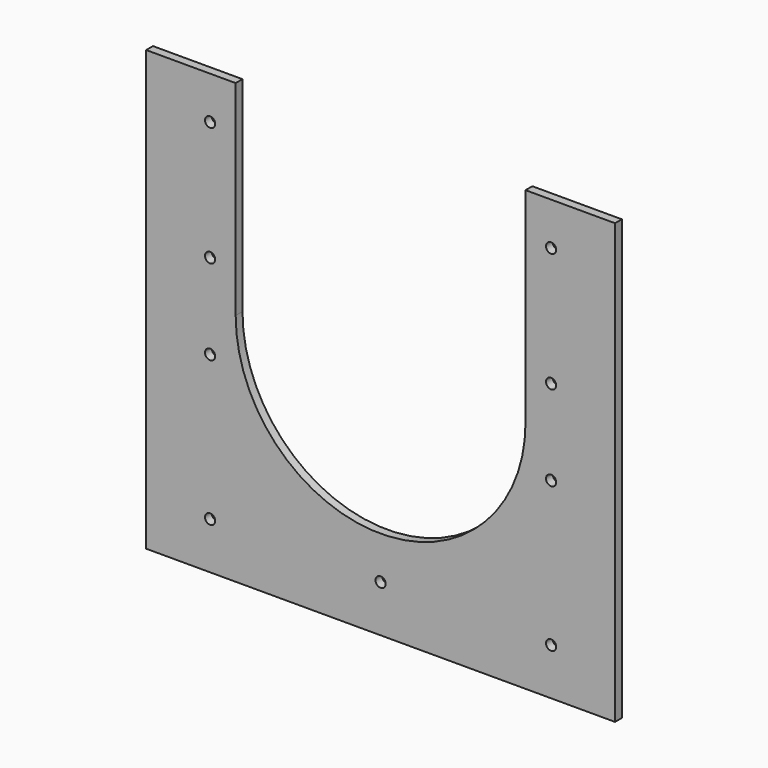
from build123d import *

# Parameters (mm, degrees)
SKETCH005_R      = 6
EXTRUDE004_DEPTH = 1000
EXTRUDE003_DEPTH = 1000
SKETCH003_W      = 550
SKETCH003_H      = 10
EXTRUDE002_DEPTH = 515


with BuildPart() as extrude004:
    # Sketch005 → Extrude004 (new body)
    with BuildSketch(Plane.XZ.offset(2500)):
        with Locations((-200, 1730)):
            Circle(SKETCH005_R)
        with Locations((-200, 1870)):
            Circle(SKETCH005_R)
        with Locations((200, 1870)):
            Circle(SKETCH005_R)
        with Locations((200, 1730)):
            Circle(SKETCH005_R)
        with Locations((-200, 1630)):
            Circle(SKETCH005_R)
        with Locations((-200, 1460)):
            Circle(SKETCH005_R)
        with Locations((200, 1630)):
            Circle(SKETCH005_R)
        with Locations((200, 1460)):
            Circle(SKETCH005_R)
        with Locations((0, 1460)):
            Circle(SKETCH005_R)
    extrude(amount=-EXTRUDE004_DEPTH)


with BuildPart() as extrude003:
    # Sketch004 → Extrude003 (new body)
    with BuildSketch(Plane.XZ.offset(2500)):
        with BuildLine():
            Line((-170, 1920), (-170, 1680))
            ThreePointArc((-170, 1680), (-4.8e-05, 1510), (170, 1679.999905))
            Line((170, 1679.999905), (170, 1920))
            Line((170, 1920), (-170, 1920))
        make_face()
    extrude(amount=-EXTRUDE003_DEPTH)


with BuildPart() as cut002:
    # Sketch003 → Extrude002 (new body)
    with BuildSketch(Plane.XY.offset(1405)):
        with Locations((0, -1820.580576)):
            Rectangle(SKETCH003_W, SKETCH003_H)
    extrude(amount=EXTRUDE002_DEPTH)

    # Cut001: cut Extrude003
    add(extrude003.part, mode=Mode.SUBTRACT)

    # Cut002: cut Extrude004
    add(extrude004.part, mode=Mode.SUBTRACT)


solid = cut002.part
